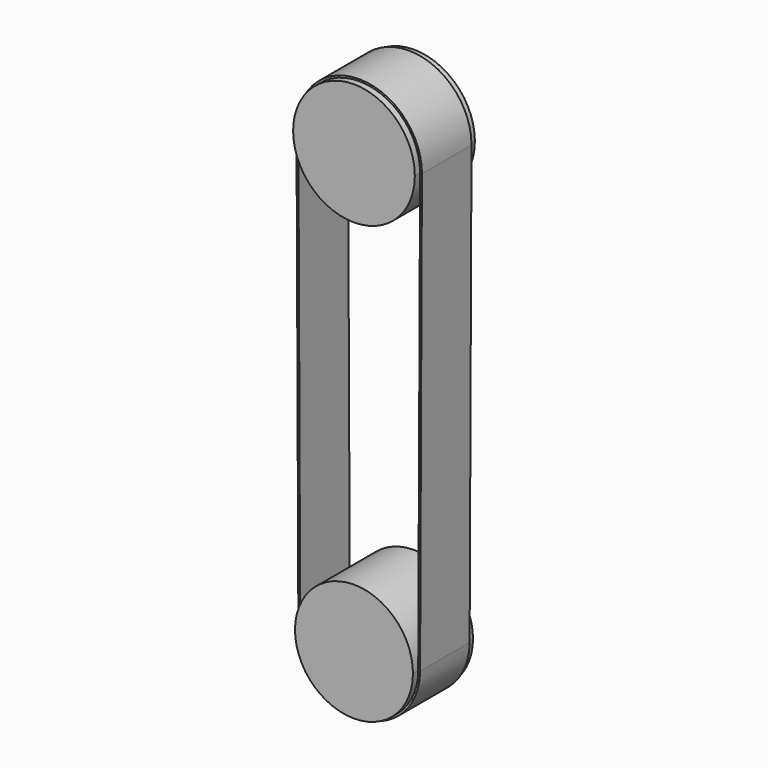
from build123d import *

# Parameters (mm, degrees)
F1_DEPTH = 200
F2_DEPTH = 165


with BuildPart() as f1:
    # F0 (on Front) → F1 (new body, symmetric)
    with BuildSketch(Plane.XZ):
        with BuildLine():
            ThreePointArc((314.184224, -1059.732191), (-0.672305, -745.548686), (-314.181346, -1061.076798))
            ThreePointArc((-314.181346, -1061.076798), (0, -1373.916415), (314.181346, -1061.076798))
            ThreePointArc((314.181346, -1061.076798), (314.183504, -1060.404496), (314.184224, -1059.732191))
        make_face()
        with BuildLine():
            ThreePointArc((324.181255, 1275.504349), (324.183482, 1276.19805), (324.184224, 1276.891754))
            ThreePointArc((324.184224, 1276.891754), (-0.693704, 1601.075235), (-324.181255, 1275.504349))
            ThreePointArc((-324.181255, 1275.504349), (0, 952.70753), (324.181255, 1275.504349))
        make_face()
    extrude(amount=F1_DEPTH, both=True)


with BuildPart() as f2:
    # F0 (on Front) → F2 (new body, symmetric)
    with BuildSketch(Plane.XZ):
        with BuildLine():
            Line((-334.181163, 1275.461553), (-324.181255, -1061.119595))
            ThreePointArc((-324.181255, -1061.119595), (0, -1383.916415), (324.181255, -1061.119595))
            Line((324.181255, -1061.119595), (334.181163, 1275.461553))
            ThreePointArc((334.181163, 1275.461553), (0, 1611.075978), (-334.181163, 1275.461553))
        make_face()
        with BuildLine():
            ThreePointArc((-324.181255, 1275.504349), (-0.693704, 1601.075235), (324.184224, 1276.891754))
            ThreePointArc((324.184224, 1276.891754), (324.183482, 1276.19805), (324.181255, 1275.504349))
            Line((324.181255, 1275.504349), (314.181346, -1061.076798))
            ThreePointArc((314.181346, -1061.076798), (0, -1373.916415), (-314.181346, -1061.076798))
            Line((-314.181346, -1061.076798), (-324.181255, 1275.504349))
        make_face(mode=Mode.SUBTRACT)
    extrude(amount=F2_DEPTH, both=True)


solid = Compound([f1.part, f2.part])
